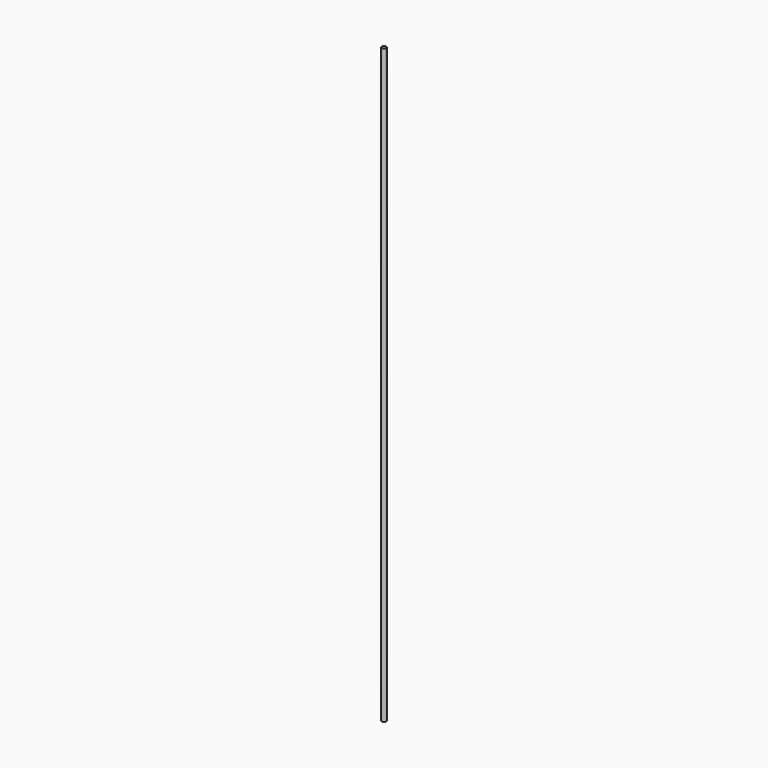
from build123d import *

# Parameters (mm, degrees)
CYLINDER_R     = 4
CYLINDER_DEPTH = 1085.85


with BuildPart() as part:
    # Cylinder → Cylinder (new body)
    with BuildSketch(Plane.XY):
        Circle(CYLINDER_R)
    extrude(amount=CYLINDER_DEPTH)


solid = part.part
